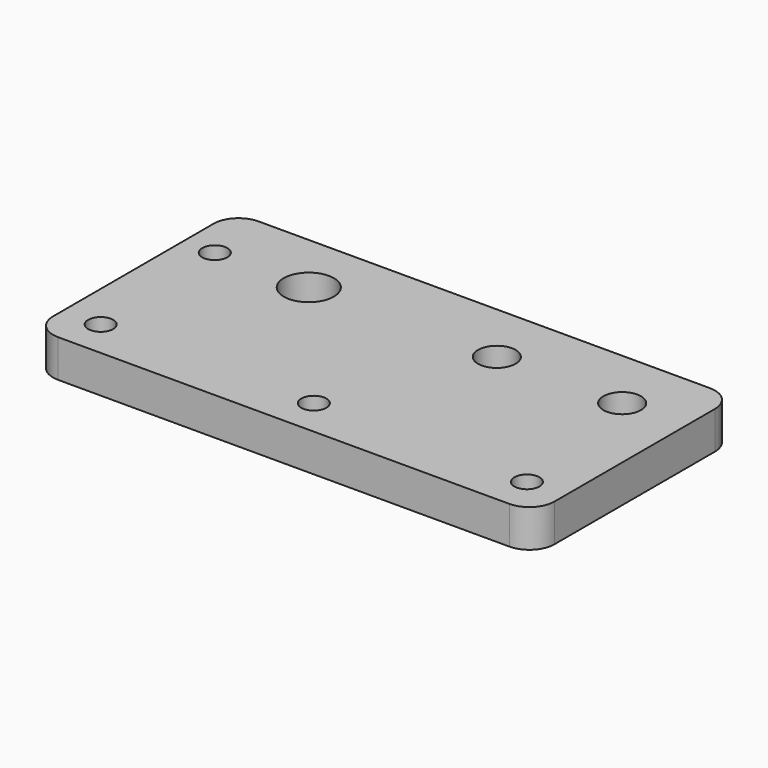
from build123d import *

# Parameters (mm, degrees)
SKETCH_W        = 80
SKETCH_H        = 40
PAD_DEPTH       = 6
SKETCH001_R     = 3
SKETCH001_R_2   = 4
POCKET_DEPTH    = 7
FILLET_R        = 4
FILLET001_R     = 4
FILLET002_R     = 4
FILLET003_R     = 4
SKETCH002_R     = 2
POCKET001_DEPTH = 8


with BuildPart() as part:
    # Sketch → Pad (new body)
    with BuildSketch(Plane.XY):
        with Locations((40, 20)):
            Rectangle(SKETCH_W, SKETCH_H)
    extrude(amount=PAD_DEPTH)

    # Sketch001 → Pocket (cut)
    with BuildSketch(Plane.XY.offset(6)):
        with Locations((50, 30)):
            Circle(SKETCH001_R)
        with Locations((70, 30)):
            Circle(SKETCH001_R)
        with Locations((20, 30)):
            Circle(SKETCH001_R_2)
    extrude(amount=-POCKET_DEPTH, mode=Mode.SUBTRACT)

    # Fillet
    fillet_edges = [part.edges().sort_by_distance(p)[0] for p in [
        (0, 0, 3),
    ]]
    fillet(fillet_edges, radius=FILLET_R)

    # Fillet001
    fillet001_edges = [part.edges().sort_by_distance(p)[0] for p in [
        (80, 0, 3),
    ]]
    fillet(fillet001_edges, radius=FILLET001_R)

    # Fillet002
    fillet002_edges = [part.edges().sort_by_distance(p)[0] for p in [
        (80, 40, 3),
    ]]
    fillet(fillet002_edges, radius=FILLET002_R)

    # Fillet003
    fillet003_edges = [part.edges().sort_by_distance(p)[0] for p in [
        (0, 40, 3),
    ]]
    fillet(fillet003_edges, radius=FILLET003_R)

    # Sketch002 → Pocket001 (cut)
    with BuildSketch(Plane.XY.offset(6)):
        with Locations((5, 30)):
            Circle(SKETCH002_R)
        with Locations((6, 6)):
            Circle(SKETCH002_R)
        with Locations((40, 6)):
            Circle(SKETCH002_R)
        with Locations((74, 6)):
            Circle(SKETCH002_R)
    extrude(amount=-POCKET001_DEPTH, mode=Mode.SUBTRACT)


solid = part.part
